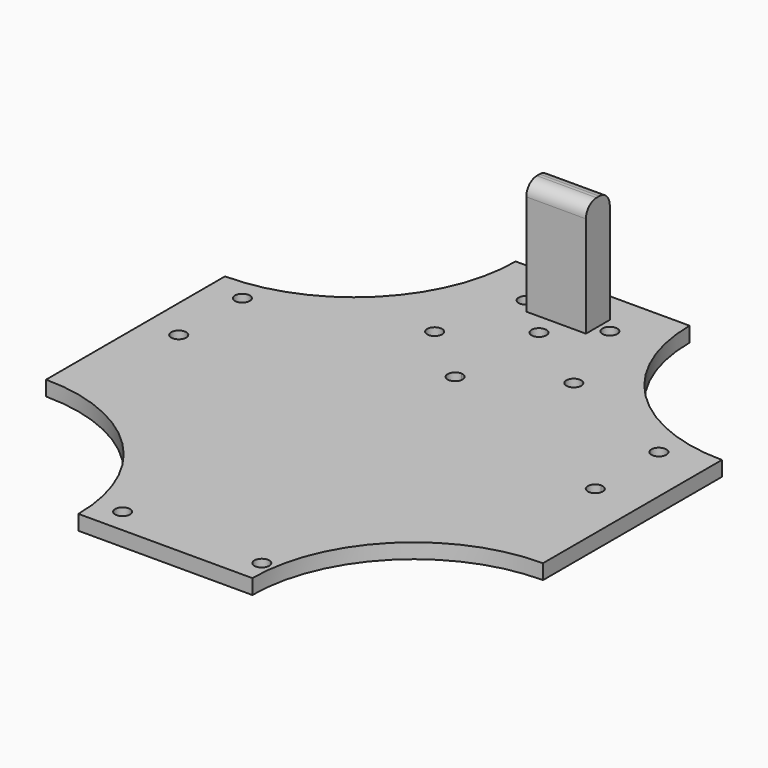
from build123d import *

# Parameters (mm, degrees)
F1_DEPTH = 3
F2_W     = 12
F2_H     = 6
F3_DEPTH = 23
F4_R     = 2.6556349186
F5_R     = 1.5
F6_DEPTH = 25


with BuildPart() as f1:
    # F0 (on Top) → F1 (new body)
    with BuildSketch(Plane.XY):
        with BuildLine():
            Line((-0.8725353895, 110), (-35.8725353895, 110))
            ThreePointArc((-35.8725353895, 110), (-45.391565001, 87.0190296114), (-68.3725353895, 77.5))
            Line((-68.3725353895, 77.5), (-68.3725353895, 32.5))
            ThreePointArc((-68.3725353895, 32.5), (-45.391565001, 22.9809703886), (-35.8725353895, 0))
            Line((-35.8725353895, 0), (-0.8725353895, 0))
            ThreePointArc((-0.8725353895, 0), (8.6464942219, 22.9809703886), (31.6274646105, 32.5))
            Line((31.6274646105, 32.5), (31.6274646105, 77.5))
            ThreePointArc((31.6274646105, 77.5), (8.6464942219, 87.0190296114), (-0.8725353895, 110))
        make_face()
    extrude(amount=-F1_DEPTH)

    # F2 (on face) → F3 (join)
    with BuildSketch(Plane.XY):
        with Locations((-17.8964557126, 100.6955172337)):
            Rectangle(F2_W, F2_H)
    extrude(amount=F3_DEPTH)

    # F4
    f4_edges = [f1.edges().sort_by_distance(p)[0] for p in [
        (-17.896456, 103.695517, 23),
        (-17.896456, 97.695517, 23),
    ]]
    fillet(f4_edges, radius=F4_R)

    # F5 (on face) → F6 (cut)
    with BuildSketch(Plane.XY):
        with Locations((-9.4853062183, 100.6955172337)):
            Circle(F5_R)
        with Locations((-26.3249855489, 100.6955172337)):
            Circle(F5_R)
        with BuildLine():
            ThreePointArc((-17.9624670977, 91.8832976659), (-16.8593966684, 92.2980970094), (-16.3964557126, 93.381844461))
            ThreePointArc((-16.3964557126, 93.381844461), (-18.9335147568, 94.4655919126), (-17.9624670977, 91.8832976659))
        make_face()
        with BuildLine():
            ThreePointArc((-1.3895297348, 83.3915324938), (-2.8895297348, 84.8915324938), (-4.3895297348, 83.3915324938))
            ThreePointArc((-4.3895297348, 83.3915324938), (-2.8895297348, 81.8915324938), (-1.3895297348, 83.3915324938))
        make_face()
        with BuildLine():
            ThreePointArc((-17.2766075142, 73.4012205266), (-17.6928600626, 74.4382795708), (-18.7105961291, 74.8997673217))
            ThreePointArc((-18.7105961291, 74.8997673217), (-19.8603549658, 72.3641614824), (-17.2766075142, 73.4012205266))
        make_face()
        with Locations((-30.8895297348, 83.3915324938)):
            Circle(F5_R)
        with BuildLine():
            ThreePointArc((22.2231764346, 71.9012205266), (23.2838366064, 72.3405603548), (23.7231764346, 73.4012205266))
            ThreePointArc((23.7231764346, 73.4012205266), (21.1625162629, 74.4618806984), (22.2231764346, 71.9012205266))
        make_face()
        with BuildLine():
            ThreePointArc((23.7231764346, 57.4012205266), (23.2838366064, 58.4618806984), (22.2231764346, 58.9012205266))
            ThreePointArc((22.2231764346, 58.9012205266), (21.1625162629, 56.3405603548), (23.7231764346, 57.4012205266))
        make_face()
        with Locations((-61.5987628698, 73.4012205266)):
            Circle(F5_R)
        with Locations((-61.5987628698, 57.4012205266)):
            Circle(F5_R)
        with Locations((-2.8895297348, 4.9070445821)):
            Circle(F5_R)
        with Locations((-30.8895297348, 4.9070445821)):
            Circle(F5_R)
    extrude(amount=-F6_DEPTH, mode=Mode.SUBTRACT)


solid = f1.part
